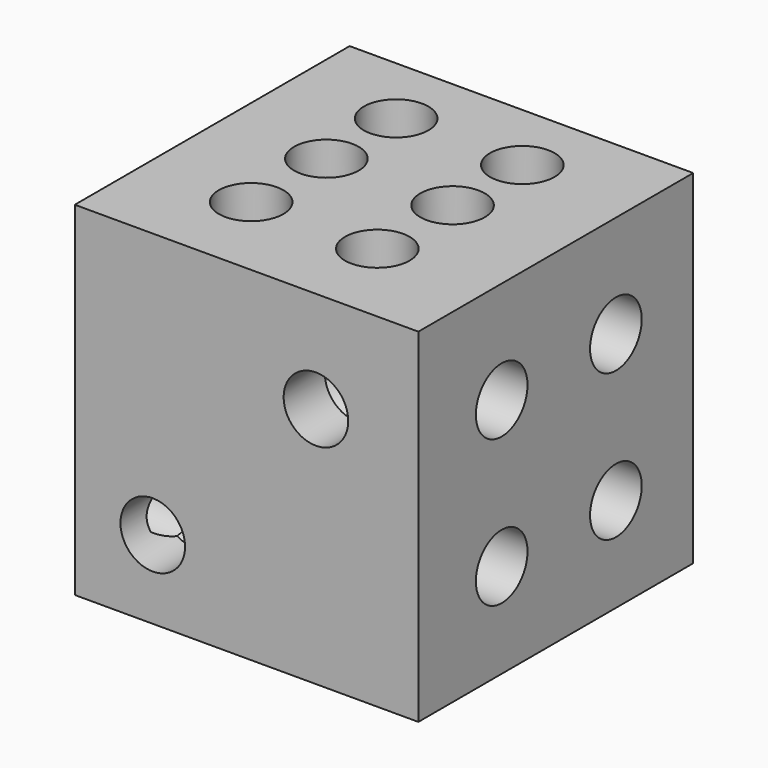
from build123d import *

# Parameters (mm, degrees)
F0_W      = 25.4
F0_H      = 25.4
F1_DEPTH  = 25.4
F3_D      = 4.7752
F3_DEPTH  = 3.81
F3_TIP    = 1.434614814
F6_D      = 4.7752
F6_DEPTH  = 3.81
F6_TIP    = 1.434614814
F9_D      = 4.7752
F9_DEPTH  = 3.81
F9_TIP    = 1.434614814
F12_D     = 4.7752
F12_DEPTH = 3.81
F12_TIP   = 1.434614814
F15_D     = 4.7752
F15_DEPTH = 3.81
F15_TIP   = 1.434614814
F18_D     = 4.7752
F18_DEPTH = 3.81
F18_TIP   = 1.434614814


with BuildPart() as f1:
    # F0 (on Top) → F1 (new body)
    with BuildSketch(Plane.XY):
        with Locations((12.7, 12.7)):
            Rectangle(F0_W, F0_H)
    extrude(amount=F1_DEPTH)

    # F3
    with Locations(Plane(origin=(0, 0, 0), x_dir=(1, 0, 0), z_dir=(0, 0, -1))):
        with Locations((12.5505877659, -13.2636902854)):
            Hole(F3_D / 2, depth=F3_DEPTH)
            with Locations((0, 0, -(F3_DEPTH + F3_TIP / 2))):  # 118° drill point
                Cone(0, F3_D / 2, F3_TIP, mode=Mode.SUBTRACT)

    # F6
    with Locations(Plane.XY.offset(25.4)):
        with Locations((7.7443891205, 20.0160127133), (17.0726701617, 20.0160127133), (17.0726701617, 13.5710183531), (7.7443891205, 13.5710183531), (17.0726701617, 6.6172094084), (7.7443891205, 6.6172094084)):
            Hole(F6_D / 2, depth=F6_DEPTH)
            with Locations((0, 0, -(F6_DEPTH + F6_TIP / 2))):  # 118° drill point
                Cone(0, F6_D / 2, F6_TIP, mode=Mode.SUBTRACT)

    # F9
    with Locations(Plane.YZ.offset(25.4)):
        with Locations((7.701497525, 17.8275406361), (18.2554014027, 17.8275406361), (18.2554014027, 6.9883959368), (7.701497525, 6.9883959368)):
            Hole(F9_D / 2, depth=F9_DEPTH)
            with Locations((0, 0, -(F9_DEPTH + F9_TIP / 2))):  # 118° drill point
                Cone(0, F9_D / 2, F9_TIP, mode=Mode.SUBTRACT)

    # F12
    with Locations(Plane(origin=(0, 0, 0), x_dir=(0, -1, 0), z_dir=(-1, 0, 0))):
        with Locations((-21.512749598, 21.4167089134), (-12.6499123884, 12.5934386103), (-4.6466261932, 4.6258819755)):
            Hole(F12_D / 2, depth=F12_DEPTH)
            with Locations((0, 0, -(F12_DEPTH + F12_TIP / 2))):  # 118° drill point
                Cone(0, F12_D / 2, F12_TIP, mode=Mode.SUBTRACT)

    # F15
    with Locations(Plane.XZ):
        with Locations((5.7652813432, 5.7883422565), (17.8275406361, 17.898850143)):
            Hole(F15_D / 2, depth=F15_DEPTH)
            with Locations((0, 0, -(F15_DEPTH + F15_TIP / 2))):  # 118° drill point
                Cone(0, F15_D / 2, F15_TIP, mode=Mode.SUBTRACT)

    # F18
    with Locations(Plane(origin=(0, 25.4, 0), x_dir=(-1, 0, 0), z_dir=(0, 1, 0))):
        with Locations((-20.2520862222, 18.9685039222), (-7.9867383465, 18.9685039222), (-14.5472735167, 13.2636902854), (-20.2520862222, 7.2736367583), (-7.9867383465, 7.2736367583)):
            Hole(F18_D / 2, depth=F18_DEPTH)
            with Locations((0, 0, -(F18_DEPTH + F18_TIP / 2))):  # 118° drill point
                Cone(0, F18_D / 2, F18_TIP, mode=Mode.SUBTRACT)


solid = f1.part
